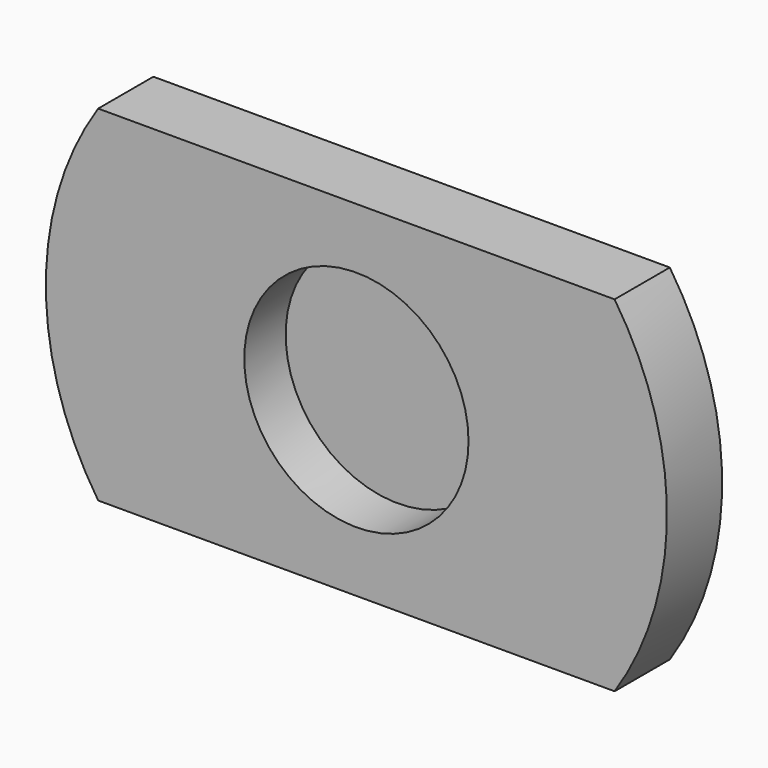
from build123d import *

# Parameters (mm, degrees)
F0_R     = 18
F1_DEPTH = 2
F2_R     = 6.5
F3_DEPTH = 3
F4_W     = 46
F4_H     = 8.283501
F5_DEPTH = 25


with BuildPart() as f1:
    # F0 (on Front) → F1 (new body, symmetric)
    with BuildSketch(Plane.XZ):
        Circle(F0_R)
    extrude(amount=F1_DEPTH, both=True)

    # F2 (on face) → F3 (cut)
    with BuildSketch(Plane.XZ.offset(2)):
        Circle(F2_R)
    extrude(amount=-F3_DEPTH, mode=Mode.SUBTRACT)

    # F4 (on face) → F5 (cut)
    with BuildSketch(Plane.XZ.offset(2)):
        with Locations((-4.178571, 14.14175)):
            Rectangle(F4_W, F4_H)
        with Locations((-4.178571, -14.14175)):
            Rectangle(F4_W, F4_H)
    extrude(amount=-F5_DEPTH, mode=Mode.SUBTRACT)


solid = f1.part
